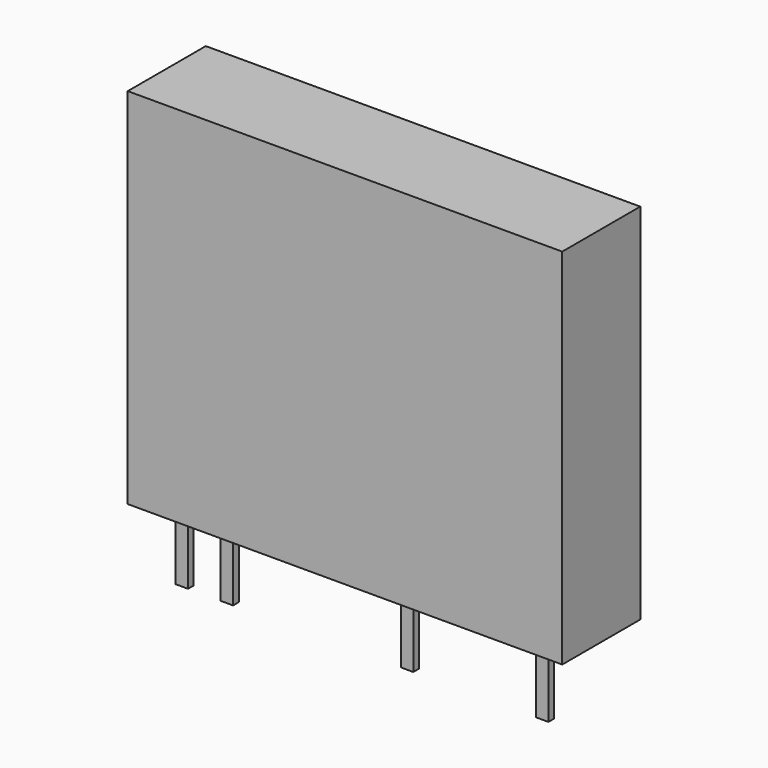
from build123d import *

# Parameters (mm, degrees)
F0_W     = 24.5
F0_H     = 5.5
F0_W_2   = 0.7
F0_H_2   = 0.4
F1_DEPTH = 20.5
F2_DEPTH = 3.9


with BuildPart() as f1:
    # F0 (on Top) → F1 (new body)
    with BuildSketch(Plane.XY):
        with Locations((0, 1.35)):
            Rectangle(F0_W, F0_H)
        with Locations((-10.16, 0)):
            Rectangle(F0_W_2, F0_H_2, mode=Mode.SUBTRACT)
        with Locations((-7.62, 0)):
            Rectangle(F0_W_2, F0_H_2, mode=Mode.SUBTRACT)
        with Locations((2.54, 0)):
            Rectangle(F0_W_2, F0_H_2, mode=Mode.SUBTRACT)
        with Locations((10.16, 0)):
            Rectangle(F0_W_2, F0_H_2, mode=Mode.SUBTRACT)
        with Locations((-10.16, 0)):
            Rectangle(F0_W_2, F0_H_2)
        with Locations((2.54, 0)):
            Rectangle(F0_W_2, F0_H_2)
        with Locations((10.16, 0)):
            Rectangle(F0_W_2, F0_H_2)
        with Locations((-7.62, 0)):
            Rectangle(F0_W_2, F0_H_2)
    extrude(amount=F1_DEPTH)


with BuildPart() as f2:
    # F0 (on Top) → F2 (new body)
    with BuildSketch(Plane.XY):
        with Locations((-10.16, 0)):
            Rectangle(F0_W_2, F0_H_2)
    extrude(amount=-F2_DEPTH)


with BuildPart() as f2b:
    # F0 (on Top) → F2, piece 2 (new body)
    with BuildSketch(Plane.XY):
        with Locations((-7.62, 0)):
            Rectangle(F0_W_2, F0_H_2)
    extrude(amount=-F2_DEPTH)


with BuildPart() as f2c:
    # F0 (on Top) → F2, piece 3 (new body)
    with BuildSketch(Plane.XY):
        with Locations((2.54, 0)):
            Rectangle(F0_W_2, F0_H_2)
    extrude(amount=-F2_DEPTH)


with BuildPart() as f2d:
    # F0 (on Top) → F2, piece 4 (new body)
    with BuildSketch(Plane.XY):
        with Locations((10.16, 0)):
            Rectangle(F0_W_2, F0_H_2)
    extrude(amount=-F2_DEPTH)


solid = Compound([f1.part, f2.part, f2b.part, f2c.part, f2d.part])
